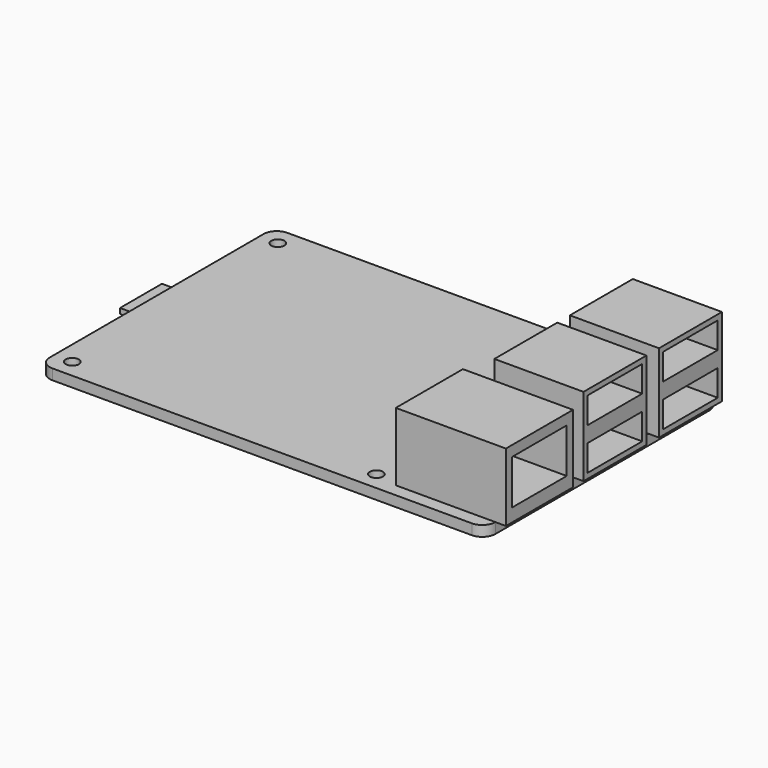
from build123d import *

# Parameters (mm, degrees)
F0_W      = 85
F0_H      = 56
F1_DEPTH  = 2
F2_R      = 1.25
F3_DEPTH  = 2
F4_R      = 2.5
F5_W      = 17
F5_H      = 15
F6_DEPTH  = 15
F7_W      = 13
F7_H      = 5
F8_DEPTH  = 15
F9_W      = 21
F9_H      = 16
F10_DEPTH = 13
F11_W     = 13
F11_H     = 8.5
F12_DEPTH = 15
F13_W     = 10
F13_H     = 1
F14_DEPTH = 3


with BuildPart() as f1:
    # F0 (on Top) → F1 (new body)
    with BuildSketch(Plane.XY):
        with Locations((40.44705, 38.563722)):
            Rectangle(F0_W, F0_H)
    extrude(amount=F1_DEPTH)

    # F2 (on face) → F3 (cut, through all)
    with BuildSketch(Plane.XY.offset(2)):
        with Locations((1.44705, 63.063722)):
            Circle(F2_R)
        with Locations((1.44705, 14.063722)):
            Circle(F2_R)
        with Locations((58.19705, 63.063722)):
            Circle(F2_R)
        with Locations((59.44705, 14.063722)):
            Circle(F2_R)
    extrude(amount=-F3_DEPTH, mode=Mode.SUBTRACT)

    # F4
    f4_edges = [f1.edges().sort_by_distance(p)[0] for p in [
        (82.94705, 10.563722, 1),
        (82.94705, 66.563722, 1),
        (-2.05295, 10.563722, 1),
        (-2.05295, 66.563722, 1),
    ]]
    fillet(f4_edges, radius=F4_R)

    # F5 (on face) → F6 (join)
    with BuildSketch(Plane.XY.offset(2)):
        with Locations((76.44705, 57.063722)):
            Rectangle(F5_W, F5_H)
        with Locations((76.44705, 39.063722)):
            Rectangle(F5_W, F5_H)
    extrude(amount=F6_DEPTH)

    # F7 (on face) → F8 (cut)
    with BuildSketch(Plane.YZ.offset(84.94705)):
        with Locations((39.063722, 13.5)):
            Rectangle(F7_W, F7_H)
        with Locations((39.063722, 5.5)):
            Rectangle(F7_W, F7_H)
        with Locations((57.063722, 13.5)):
            Rectangle(F7_W, F7_H)
        with Locations((57.063722, 5.5)):
            Rectangle(F7_W, F7_H)
    extrude(amount=-F8_DEPTH, mode=Mode.SUBTRACT)

    # F9 (on face) → F10 (join)
    with BuildSketch(Plane.XY.offset(2)):
        with Locations((74.44705, 21.063722)):
            Rectangle(F9_W, F9_H)
    extrude(amount=F10_DEPTH)

    # F11 (on face) → F12 (cut)
    with BuildSketch(Plane.YZ.offset(84.94705)):
        with Locations((21.063722, 8.75)):
            Rectangle(F11_W, F11_H)
    extrude(amount=-F12_DEPTH, mode=Mode.SUBTRACT)

    # F13 (on face) → F14 (join)
    with BuildSketch(Plane(origin=(-2.05295, 0, 0), x_dir=(0, -1, 0), z_dir=(-1, 0, 0))):
        with Locations((-38.563722, 0.5)):
            Rectangle(F13_W, F13_H)
    extrude(amount=F14_DEPTH)


solid = f1.part
